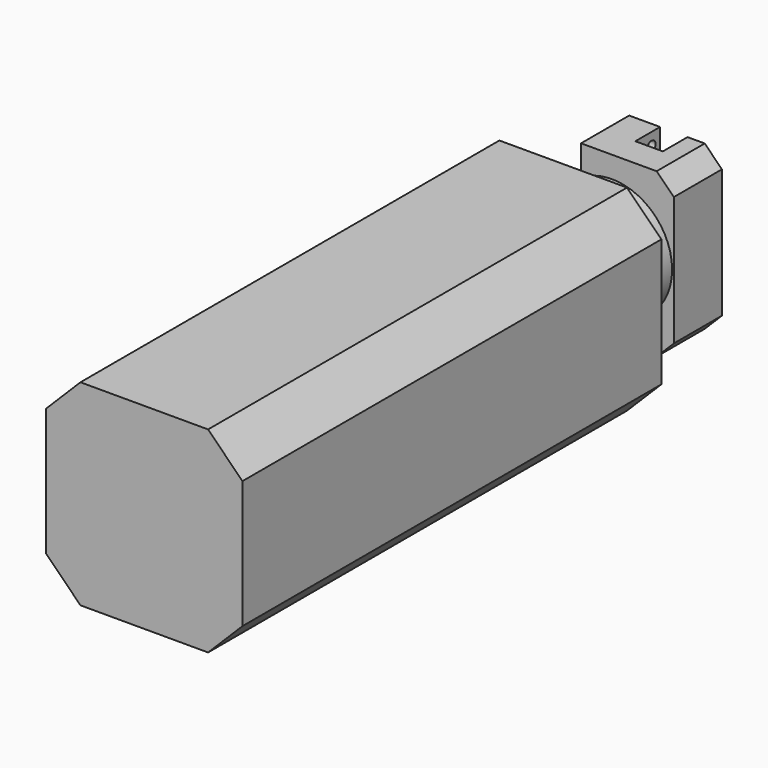
from build123d import *

# Parameters (mm, degrees)
F0_W      = 228.6
F0_H      = 228.6
F1_DEPTH  = 609.6
F3_SIZE   = 40
F4_R      = 85
F5_DEPTH  = 25
F6_R      = 70
F7_DEPTH  = 46
F9_DEPTH  = 70
F10_W     = 32
F10_H     = 45.417998
F11_DEPTH = 252
F12_SIZE  = 20
F14_D     = 12
F14_DEPTH = 40


with BuildPart() as f1:
    # F0 (on Front) → F1 (new body)
    with BuildSketch(Plane.XZ):
        Rectangle(F0_W, F0_H)
    extrude(amount=F1_DEPTH)

    # F3
    f3_edges = [f1.edges().sort_by_distance(p)[0] for p in [
        (114.3, -304.8, 114.3),
        (-114.3, -304.8, 114.3),
        (-114.3, -304.8, -114.3),
        (114.3, -304.8, -114.3),
    ]]
    chamfer(f3_edges, length=F3_SIZE)

    # F4 (on Front) → F5 (join)
    with BuildSketch(Plane.XZ):
        Circle(F4_R)
    extrude(amount=-F5_DEPTH)

    # F6 (on face) → F7 (join)
    with BuildSketch(Plane(origin=(0, 25, 0), x_dir=(-1, 0, 0), z_dir=(0, 1, 0))):
        Circle(F6_R)
    extrude(amount=F7_DEPTH)

    # F8 (on face) → F9 (join)
    with BuildSketch(Plane(origin=(0, 71, 0), x_dir=(-1, 0, 0), z_dir=(0, 1, 0))):
        Polygon((-32, 95), (-72, 95), (-72, -95), (-32, -95), (-32, 0), align=None)
        Polygon((0, 95), (-32, 95), (-32, 0), (-32, -95), (0, -95), (0, 0), align=None)
        Polygon((36, 95), (0, 95), (0, 0), (0, -95), (36, -95), align=None)
    extrude(amount=F9_DEPTH)

    # F10 (on face) → F11 (cut)
    with BuildSketch(Plane(origin=(0, 0, -95), x_dir=(1, 0, 0), z_dir=(0, 0, -1))):
        with Locations((16, -127.708999)):
            Rectangle(F10_W, F10_H)
    extrude(amount=-F11_DEPTH, mode=Mode.SUBTRACT)

    # F12
    f12_edges = [f1.edges().sort_by_distance(p)[0] for p in [
        (72, 106, -95),
        (72, 106, 95),
    ]]
    chamfer(f12_edges, length=F12_SIZE)

    # F14
    with Locations(Plane(origin=(-36, 0, 0), x_dir=(0, -1, 0), z_dir=(-1, 0, 0))):
        with Locations((-128.494948, 80), (-128.494948, 40), (-128.494948, 0), (-128.494948, -40), (-128.494948, -80)):
            Hole(F14_D / 2, depth=F14_DEPTH)


solid = f1.part
